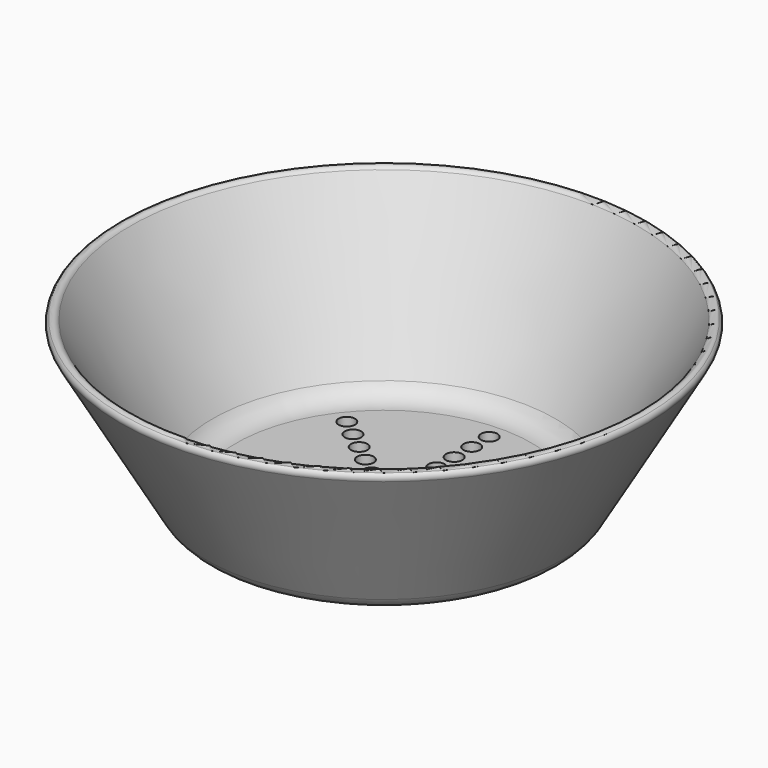
from build123d import *

# Parameters (mm, degrees)
F2_R     = 1.5
F3_DEPTH = 25


with BuildPart() as f1:
    # F0 (on Front) → F1 (revolve)
    with BuildSketch(Plane.XZ):
        with BuildLine():
            Line((26.958548, 0), (0, 0))
            Line((0, 0), (0, -2))
            Line((0, -2), (28.113249, -2))
            ThreePointArc((28.113249, -2), (30.613249, -1.330127), (32.443376, 0.5))
            Line((32.443376, 0.5), (48.064948, 27.557357))
            ThreePointArc((48.064948, 27.557357), (48.180461, 28.248623), (47.81385, 28.84594))
            ThreePointArc((47.81385, 28.84594), (47.007656, 29.038895), (46.332897, 28.557357))
            Line((46.332897, 28.557357), (31.288675, 2.5))
            ThreePointArc((31.288675, 2.5), (29.458548, 0.669873), (26.958548, 0))
        make_face()
    revolve(axis=Axis((0, 0, 22.936326), (0, 0, 1)))

    # F2 (on face) → F3 (cut)
    with BuildSketch(Plane.XY):
        with Locations((0, 20)):
            Circle(F2_R)
        with Locations((0, 16)):
            Circle(F2_R)
        with Locations((0, 12)):
            Circle(F2_R)
        with Locations((0, 8)):
            Circle(F2_R)
        with Locations((0, 4)):
            Circle(F2_R)
        with Locations((0, 24)):
            Circle(F2_R)
        with Locations((-18.763956, 14.963755)):
            Circle(F2_R)
        with Locations((-15.63663, 12.469796)):
            Circle(F2_R)
        with Locations((-12.509304, 9.975837)):
            Circle(F2_R)
        with Locations((-9.381978, 7.481878)):
            Circle(F2_R)
        with Locations((-6.254652, 4.987918)):
            Circle(F2_R)
        with Locations((-3.127326, 2.493959)):
            Circle(F2_R)
        with Locations((-23.39827, -5.340502)):
            Circle(F2_R)
        with Locations((-19.498558, -4.450419)):
            Circle(F2_R)
        with Locations((-15.598847, -3.560335)):
            Circle(F2_R)
        with Locations((-11.699135, -2.670251)):
            Circle(F2_R)
        with Locations((-7.799423, -1.780167)):
            Circle(F2_R)
        with Locations((-3.899712, -0.890084)):
            Circle(F2_R)
        with Locations((-10.41321, -21.623253)):
            Circle(F2_R)
        with Locations((-8.677675, -18.019377)):
            Circle(F2_R)
        with Locations((-6.94214, -14.415502)):
            Circle(F2_R)
        with Locations((-5.206605, -10.811626)):
            Circle(F2_R)
        with Locations((-3.47107, -7.207751)):
            Circle(F2_R)
        with Locations((-1.735535, -3.603875)):
            Circle(F2_R)
        with Locations((10.41321, -21.623253)):
            Circle(F2_R)
        with Locations((8.677675, -18.019377)):
            Circle(F2_R)
        with Locations((6.94214, -14.415502)):
            Circle(F2_R)
        with Locations((5.206605, -10.811626)):
            Circle(F2_R)
        with Locations((3.47107, -7.207751)):
            Circle(F2_R)
        with Locations((1.735535, -3.603875)):
            Circle(F2_R)
        with Locations((23.39827, -5.340502)):
            Circle(F2_R)
        with Locations((19.498558, -4.450419)):
            Circle(F2_R)
        with Locations((15.598847, -3.560335)):
            Circle(F2_R)
        with Locations((11.699135, -2.670251)):
            Circle(F2_R)
        with Locations((7.799423, -1.780167)):
            Circle(F2_R)
        with Locations((3.899712, -0.890084)):
            Circle(F2_R)
        with Locations((18.763956, 14.963755)):
            Circle(F2_R)
        with Locations((15.63663, 12.469796)):
            Circle(F2_R)
        with Locations((12.509304, 9.975837)):
            Circle(F2_R)
        with Locations((9.381978, 7.481878)):
            Circle(F2_R)
        with Locations((6.254652, 4.987918)):
            Circle(F2_R)
        with Locations((3.127326, 2.493959)):
            Circle(F2_R)
    extrude(amount=-F3_DEPTH, mode=Mode.SUBTRACT)


solid = f1.part
